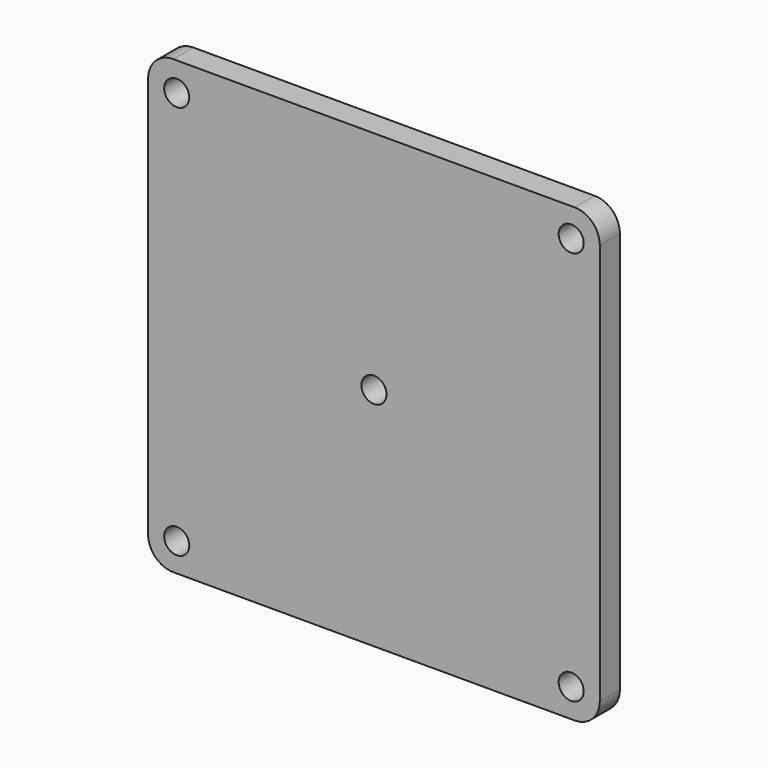
from build123d import *

# Parameters (mm, degrees)
F0_R     = 3.175
F1_DEPTH = 6.35


with BuildPart() as f1:
    # F0 (on Front) → F1 (new body)
    with BuildSketch(Plane.XZ):
        with BuildLine():
            Line((50.8, 57.15), (-50.8, 57.15))
            ThreePointArc((-50.8, 57.15), (-55.290128, 55.290128), (-57.15, 50.8))
            Line((-57.15, 50.8), (-57.15, -50.8))
            ThreePointArc((-57.15, -50.8), (-55.290128, -55.290128), (-50.8, -57.15))
            Line((-50.8, -57.15), (50.8, -57.15))
            ThreePointArc((50.8, -57.15), (55.290128, -55.290128), (57.15, -50.8))
            Line((57.15, -50.8), (57.15, 50.8))
            ThreePointArc((57.15, 50.8), (55.290128, 55.290128), (50.8, 57.15))
        make_face()
        with Locations((-49.911, -49.911)):
            Circle(F0_R, mode=Mode.SUBTRACT)
        with Locations((49.911, -49.911)):
            Circle(F0_R, mode=Mode.SUBTRACT)
        Circle(F0_R, mode=Mode.SUBTRACT)
        with Locations((-49.911, 49.911)):
            Circle(F0_R, mode=Mode.SUBTRACT)
        with Locations((49.911, 49.911)):
            Circle(F0_R, mode=Mode.SUBTRACT)
    extrude(amount=F1_DEPTH)


solid = f1.part
